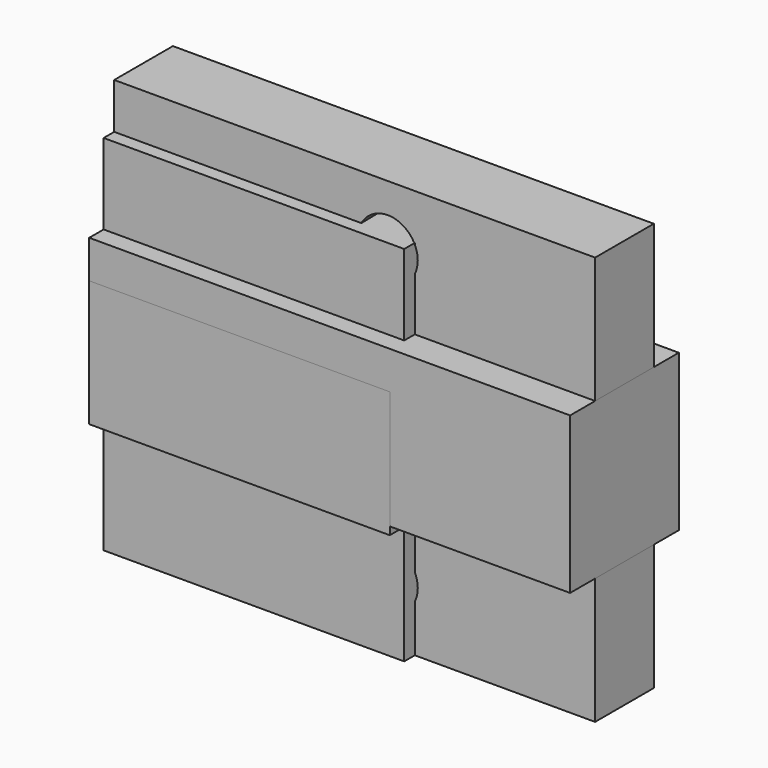
from build123d import *

# Parameters (mm, degrees)
BOX_W                       = 40
BOX_H                       = 11.3
BOX_DEPTH                   = 13
CYLINDER001_R               = 2.5
CYLINDER001_DEPTH           = 20
CYLINDER001_ROLL_ANGLE      = 89.994272
CYLINDER001_PITCH_ANGLE     = 5.7e-05
CYLINDER001_PLACEMENT_ANGLE = 1.14582
BOX002_W                    = 40
BOX002_H                    = 6.1
BOX002_DEPTH                = 10.5
CYLINDER_R                  = 2.5
CYLINDER_DEPTH              = 20
CYLINDER_ROLL_ANGLE         = 89.994272
CYLINDER_PITCH_ANGLE        = 5.7e-05
CYLINDER_PLACEMENT_ANGLE    = 1.14582
BOX001_W                    = 40
BOX001_H                    = 6.1
BOX001_DEPTH                = 10.5
BOX003_W                    = 40
BOX003_H                    = 11.3
BOX003_DEPTH                = 13
CYLINDER002_R               = 2.5
CYLINDER002_DEPTH           = 20
CYLINDER002_ROLL_ANGLE      = 89.994272
CYLINDER002_PITCH_ANGLE     = 5.7e-05
CYLINDER002_PLACEMENT_ANGLE = 1.14582
BOX004_W                    = 40
BOX004_H                    = 6.1
BOX004_DEPTH                = 10.5
CYLINDER003_R               = 2.5
CYLINDER003_DEPTH           = 20
CYLINDER003_ROLL_ANGLE      = 89.994272
CYLINDER003_PITCH_ANGLE     = 5.7e-05
CYLINDER003_PLACEMENT_ANGLE = 1.14582
BOX005_W                    = 40
BOX005_H                    = 6.1
BOX005_DEPTH                = 10.5
BOX006_W                    = 25
BOX006_H                    = 7
BOX006_DEPTH                = 10.5
BOX007_W                    = 25
BOX007_H                    = 4
BOX007_DEPTH                = 9.85
BOX008_W                    = 25
BOX008_H                    = 4
BOX008_DEPTH                = 9.85


with BuildPart() as cube:
    # Box → Box (new body)
    with BuildSketch(Plane.XY.offset(10.5)):
        with Locations((20, 5.65)):
            Rectangle(BOX_W, BOX_H)
    extrude(amount=BOX_DEPTH)


with BuildPart() as cylinder001:
    # Cylinder001 → Cylinder001 (new body)
    with BuildSketch(Plane.XY):
        Circle(CYLINDER001_R)
    extrude(amount=CYLINDER001_DEPTH)


with BuildPart() as cylinder001_1:
    # Cylinder001 roll: moved
    add(cylinder001.part.rotate(Axis((0, 0, 0), (1, 0, 0)), CYLINDER001_ROLL_ANGLE))


with BuildPart() as cylinder001_2:
    # Cylinder001 pitch: moved
    add(cylinder001_1.part.rotate(Axis((0, 0, 0), (0, 1, 0)), CYLINDER001_PITCH_ANGLE))


with BuildPart() as cylinder001_3:
    # Cylinder001 placement: moved
    add(cylinder001_2.part.moved(Location((22.5, 15, 5))).rotate(Axis((22.5, 15, 5), (0, 0, 1)), CYLINDER001_PLACEMENT_ANGLE))


with BuildPart() as cut001:
    # Box002 → Box002 (new body)
    with BuildSketch(Plane(origin=(0, 2.6, 0), x_dir=(1, 0, 0), z_dir=(0, 0, 1))):
        with Locations((20, 3.05)):
            Rectangle(BOX002_W, BOX002_H)
    extrude(amount=BOX002_DEPTH)

    # Cut001: cut Cylinder001
    add(cylinder001_3.part, mode=Mode.SUBTRACT)


with BuildPart() as cylinder:
    # Cylinder → Cylinder (new body)
    with BuildSketch(Plane.XY):
        Circle(CYLINDER_R)
    extrude(amount=CYLINDER_DEPTH)


with BuildPart() as cylinder_1:
    # Cylinder roll: moved
    add(cylinder.part.rotate(Axis((0, 0, 0), (1, 0, 0)), CYLINDER_ROLL_ANGLE))


with BuildPart() as cylinder_2:
    # Cylinder pitch: moved
    add(cylinder_1.part.rotate(Axis((0, 0, 0), (0, 1, 0)), CYLINDER_PITCH_ANGLE))


with BuildPart() as cylinder_3:
    # Cylinder placement: moved
    add(cylinder_2.part.moved(Location((22.5, 15, 29))).rotate(Axis((22.5, 15, 29), (0, 0, 1)), CYLINDER_PLACEMENT_ANGLE))


with BuildPart() as fusion:
    # Box001 → Box001 (new body)
    with BuildSketch(Plane(origin=(0, 2.6, 23.5), x_dir=(1, 0, 0), z_dir=(0, 0, 1))):
        with Locations((20, 3.05)):
            Rectangle(BOX001_W, BOX001_H)
    extrude(amount=BOX001_DEPTH)

    # Cut: cut Cylinder
    add(cylinder_3.part, mode=Mode.SUBTRACT)

    # Fusion: union Cube, Cut001
    add(cube.part)
    add(cut001.part)


with BuildPart() as cube003:
    # Box003 → Box003 (new body)
    with BuildSketch(Plane.XY.offset(10.5)):
        with Locations((20, 5.65)):
            Rectangle(BOX003_W, BOX003_H)
    extrude(amount=BOX003_DEPTH)


with BuildPart() as cylinder002:
    # Cylinder002 → Cylinder002 (new body)
    with BuildSketch(Plane.XY):
        Circle(CYLINDER002_R)
    extrude(amount=CYLINDER002_DEPTH)


with BuildPart() as cylinder002_1:
    # Cylinder002 roll: moved
    add(cylinder002.part.rotate(Axis((0, 0, 0), (1, 0, 0)), CYLINDER002_ROLL_ANGLE))


with BuildPart() as cylinder002_2:
    # Cylinder002 pitch: moved
    add(cylinder002_1.part.rotate(Axis((0, 0, 0), (0, 1, 0)), CYLINDER002_PITCH_ANGLE))


with BuildPart() as cylinder002_3:
    # Cylinder002 placement: moved
    add(cylinder002_2.part.moved(Location((22.5, 15, 29))).rotate(Axis((22.5, 15, 29), (0, 0, 1)), CYLINDER002_PLACEMENT_ANGLE))


with BuildPart() as cut002:
    # Box004 → Box004 (new body)
    with BuildSketch(Plane(origin=(0, 2.6, 23.5), x_dir=(1, 0, 0), z_dir=(0, 0, 1))):
        with Locations((20, 3.05)):
            Rectangle(BOX004_W, BOX004_H)
    extrude(amount=BOX004_DEPTH)

    # Cut002: cut Cylinder002
    add(cylinder002_3.part, mode=Mode.SUBTRACT)


with BuildPart() as cylinder003:
    # Cylinder003 → Cylinder003 (new body)
    with BuildSketch(Plane.XY):
        Circle(CYLINDER003_R)
    extrude(amount=CYLINDER003_DEPTH)


with BuildPart() as cylinder003_1:
    # Cylinder003 roll: moved
    add(cylinder003.part.rotate(Axis((0, 0, 0), (1, 0, 0)), CYLINDER003_ROLL_ANGLE))


with BuildPart() as cylinder003_2:
    # Cylinder003 pitch: moved
    add(cylinder003_1.part.rotate(Axis((0, 0, 0), (0, 1, 0)), CYLINDER003_PITCH_ANGLE))


with BuildPart() as cylinder003_3:
    # Cylinder003 placement: moved
    add(cylinder003_2.part.moved(Location((22.5, 15, 5))).rotate(Axis((22.5, 15, 5), (0, 0, 1)), CYLINDER003_PLACEMENT_ANGLE))


with BuildPart() as cut003:
    # Box005 → Box005 (new body)
    with BuildSketch(Plane(origin=(0, 2.6, 0), x_dir=(1, 0, 0), z_dir=(0, 0, 1))):
        with Locations((20, 3.05)):
            Rectangle(BOX005_W, BOX005_H)
    extrude(amount=BOX005_DEPTH)

    # Cut003: cut Cylinder003
    add(cylinder003_3.part, mode=Mode.SUBTRACT)


with BuildPart() as cube006:
    # Box006 → Box006 (new body)
    with BuildSketch(Plane.XY.offset(9.85)):
        with Locations((12.5, 3.5)):
            Rectangle(BOX006_W, BOX006_H)
    extrude(amount=BOX006_DEPTH)


with BuildPart() as cube007:
    # Box007 → Box007 (new body)
    with BuildSketch(Plane(origin=(0, 1.5, 20.35), x_dir=(1, 0, 0), z_dir=(0, 0, 1))):
        with Locations((12.5, 2)):
            Rectangle(BOX007_W, BOX007_H)
    extrude(amount=BOX007_DEPTH)


with BuildPart() as cube008:
    # Box008 → Box008 (new body)
    with BuildSketch(Plane(origin=(0, 1.5, 0), x_dir=(1, 0, 0), z_dir=(0, 0, 1))):
        with Locations((12.5, 2)):
            Rectangle(BOX008_W, BOX008_H)
    extrude(amount=BOX008_DEPTH)


solid = Compound([fusion.part, cube003.part, cut002.part, cut003.part, cube006.part, cube007.part, cube008.part])
